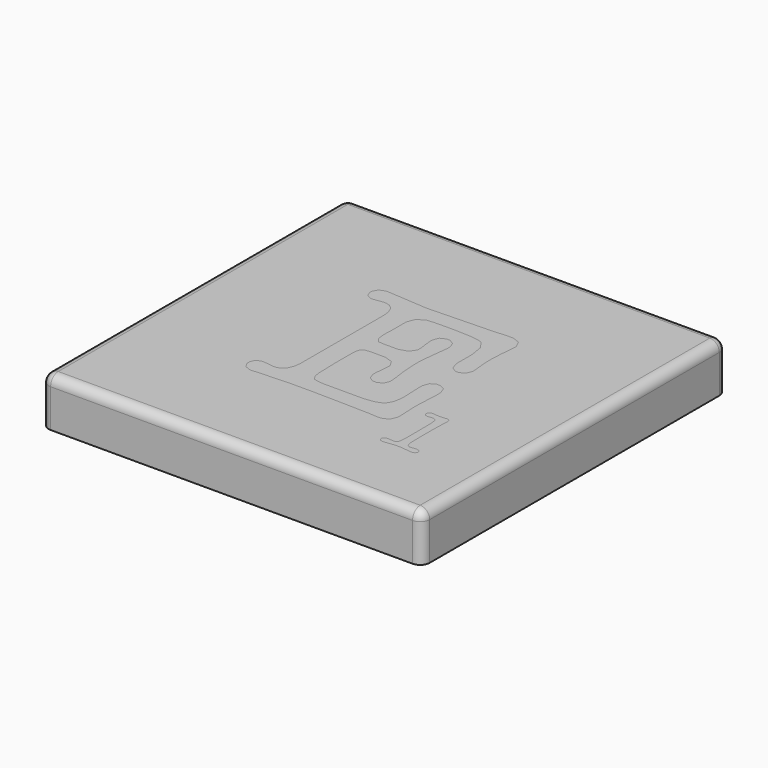
from build123d import *

# Parameters (mm, degrees)
F0_W     = 40
F0_H     = 40
F1_DEPTH = 5
F2_R     = 1
F5_DEPTH = 3


with BuildPart() as f1:
    # F0 (on Top) → F1 (new body)
    with BuildSketch(Plane.XY):
        Rectangle(F0_W, F0_H)
    extrude(amount=-F1_DEPTH)

    # F2
    f2_edges = [f1.edges().sort_by_distance(p)[0] for p in [
        (0, -20, 0),
        (20, 0, 0),
        (0, 20, 0),
        (-20, 0, 0),
        (-20, 20, -2.5),
        (20, 20, -2.5),
        (-20, -20, -2.5),
        (20, -20, -2.5),
    ]]
    fillet(f2_edges, radius=F2_R)


with BuildPart() as f5:
    # F3 (on Top) + F4 (on Top) → F5 (new body)
    with BuildSketch(Plane.XY):
        Polygon((-4.391787, 5.533542), (-4.391787, 5.318557), (-4.391787, -5.290947), (-4.391787, -5.507304), (-4.477233, -6.159144), (-4.729429, -6.77926), (-5.151095, -7.151319), (-5.593461, -7.275347), (-5.740908, -7.275347), (-5.869051, -7.275347), (-6.249391, -7.209206), (-6.297625, -7.196811), (-6.395466, -7.187159), (-6.833692, -7.143064), (-7.011441, -7.143064), (-7.165797, -7.143064), (-7.627442, -7.353884), (-7.831379, -7.830693), (-7.831379, -7.990561), (-7.831379, -8.16831), (-7.554392, -8.704377), (-6.930136, -8.942781), (-6.720688, -8.942781), (-6.562217, -8.942781), (-6.54017, -8.937269), (-6.384442, -8.916594), (-6.323813, -8.916594), (-5.926938, -8.889035), (-2.673375, -8.758123), (-1.455191, -8.758123), (-0.577393, -8.758123), (2.058772, -8.800846), (2.433599, -8.810473), (2.808427, -8.818753), (4.0735, -8.849055), (4.497934, -8.862847), (4.774921, -8.862847), (5.608599, -8.884895), (5.662371, -8.890406), (5.767121, -8.898687), (6.356883, -8.942781), (6.588404, -8.942781), (6.815785, -8.942781), (7.500671, -8.631326), (7.805217, -7.932674), (7.805217, -7.699781), (7.805217, -7.454494), (7.770749, -6.722745), (7.765237, -6.601485), (7.758379, -6.480226), (7.725283, -5.777408), (7.725283, -5.503189), (7.725283, -5.179339), (7.769377, -4.210583), (7.779029, -4.047973), (7.787284, -3.884016), (7.831404, -2.95656), (7.831404, -2.592781), (7.831404, -2.364029), (7.579233, -1.679143), (7.01421, -1.375969), (6.826834, -1.375969), (6.647688, -1.375969), (6.111596, -1.673606), (5.873191, -2.343353), (5.873191, -2.566594), (5.873191, -2.827045), (5.906287, -3.612515), (5.913171, -3.743427), (5.918657, -3.872967), (5.953125, -4.626737), (5.953125, -4.921682), (5.953125, -5.18762), (5.80705, -5.988253), (5.468061, -6.57667), (5.371617, -6.65386), (5.273751, -6.731025), (4.5434, -7.001104), (3.55534, -7.116877), (3.227349, -7.116877), (-0.370688, -7.116877), (-0.592557, -7.116877), (-1.256767, -7.070014), (-1.697736, -6.962521), (-1.745971, -6.932219), (-1.812112, -6.888124), (-2.050517, -6.469202), (-2.164893, -5.785688), (-2.169008, -5.609311), (-2.169008, -5.354345), (-2.192426, -4.589577), (-2.196592, -4.444848), (-2.200732, -4.324985), (-2.222779, -3.590468), (-2.222779, -3.306572), (-2.222779, -1.666723), (-2.222779, -1.486205), (-2.180057, -0.944626), (-2.079447, -0.572567), (-2.050517, -0.528447), (-2.022958, -0.484353), (-1.730781, -0.330022), (-1.266393, -0.263881), (-1.110666, -0.263881), (0.079959, -0.263881), (0.362407, -0.263881), (1.209929, -0.547751), (1.5875, -1.188542), (1.5875, -1.402156), (1.5875, -1.589532), (1.532407, -2.155927), (1.521358, -2.248256), (1.51036, -2.34061), (1.455217, -2.883535), (1.455217, -3.095752), (1.455217, -3.303829), (1.686738, -3.92811), (2.207616, -4.206443), (2.38125, -4.206443), (2.559025, -4.206443), (3.095066, -3.968039), (3.333471, -3.431997), (3.333471, -3.254223), (3.333471, -3.046171), (3.267329, -2.424633), (3.254959, -2.328189), (3.237027, -2.208327), (3.126791, -1.436624), (3.122651, -1.402156), (3.104744, -1.176147), (3.042717, -0.256997), (3.016529, 0.292837), (3.016529, 0.476123), (3.016529, 0.961187), (3.147466, 2.416378), (3.175, 2.618943), (3.205302, 2.857373), (3.312795, 3.744798), (3.359658, 4.132047), (3.359658, 4.260215), (3.359658, 4.473829), (3.121279, 5.113223), (2.585212, 5.397068), (2.407437, 5.397068), (2.228291, 5.397068), (1.69225, 5.132502), (1.455217, 4.537177), (1.455217, 4.338752), (1.455217, 4.136187), (1.521358, 3.524326), (1.535151, 3.440303), (1.547546, 3.356229), (1.613687, 2.824302), (1.613687, 2.618943), (1.613687, 2.406752), (1.196137, 1.767357), (0.25908, 1.48209), (-0.052349, 1.48209), (-1.138276, 1.48209), (-1.289812, 1.48209), (-1.74183, 1.526184), (-1.772133, 1.534439), (-1.852066, 1.561998), (-2.13045, 1.918945), (-2.248941, 2.543175), (-2.248941, 2.751252), (-2.248941, 3.095777), (-2.248941, 3.212897), (-2.228266, 3.56428), (-2.222779, 3.624936), (-2.222779, 5.397068), (-2.222779, 5.658917), (-1.938884, 6.44304), (-1.274674, 6.936359), (-1.084504, 6.984568), (-1.028014, 6.998386), (-0.358267, 7.045223), (0.763448, 7.064527), (1.138276, 7.064527), (1.715668, 7.064527), (3.452012, 6.992874), (4.56819, 6.823354), (4.682566, 6.773748), (4.836897, 6.707607), (5.377129, 5.92074), (5.608599, 4.59646), (5.608599, 4.154094), (5.608599, 2.778836), (5.608599, 2.517013), (5.847029, 1.727378), (6.383096, 1.375969), (6.562242, 1.375969), (6.739992, 1.375969), (7.276059, 1.62814), (7.514463, 2.194535), (7.514463, 2.381961), (7.514463, 2.635504), (7.424877, 3.392043), (7.408342, 3.518814), (7.398715, 3.580841), (7.355992, 4.491711), (7.355992, 4.815561), (7.355992, 5.171084), (7.420762, 6.23631), (7.434529, 6.376873), (7.451065, 6.567043), (7.513091, 7.283628), (7.540625, 7.615733), (7.540625, 7.725969), (7.540625, 7.954721), (7.196099, 8.639607), (6.423025, 8.942781), (6.165367, 8.942781), (5.990361, 8.942781), (5.468061, 8.922106), (5.397779, 8.916594), (5.199355, 8.904173), (4.457954, 8.857336), (4.129989, 8.83666), (4.021099, 8.83666), (-2.355063, 8.652027), (-2.619654, 8.652027), (-2.751938, 8.668563), (-3.413404, 8.718169), (-4.604029, 8.800846), (-5.893867, 8.88906), (-6.323813, 8.916594), (-6.385814, 8.922106), (-6.621475, 8.942781), (-6.720688, 8.942781), (-6.930136, 8.942781), (-7.554392, 8.711286), (-7.831379, 8.190382), (-7.831379, 8.016748), (-7.831379, 7.87207), (-7.632954, 7.437958), (-7.592974, 7.395261), (-7.554392, 7.35391), (-7.157517, 7.144461), (-7.011441, 7.144461), (-6.851599, 7.144461), (-6.367907, 7.210603), (-6.297625, 7.222998), (-6.267298, 7.23265), (-5.880075, 7.276744), (-5.740908, 7.276744), (-5.593461, 7.276744), (-5.151095, 7.155459), (-4.729429, 6.787515), (-4.477233, 6.175705), align=None)
    with BuildSketch(Plane.XY):
        Polygon((10.612083, -7.073426), (10.641013, -9.835015), (10.641013, -10.056859), (10.621735, -10.722466), (10.577615, -11.148272), (10.56522, -11.192366), (10.551453, -11.235089), (10.257931, -11.454189), (10.15595, -11.454189), (10.092551, -11.454189), (9.906522, -11.439025), (9.869311, -11.436282), (9.843123, -11.43077), (9.647442, -11.407352), (9.574417, -11.407352), (9.486228, -11.407352), (9.223008, -11.490029), (9.10726, -11.67743), (9.10726, -11.740828), (9.10726, -11.804227), (9.209241, -11.99714), (9.439365, -12.083957), (9.51653, -12.083957), (9.622651, -12.083957), (9.945104, -12.042631), (10.002991, -12.035722), (10.103575, -12.020558), (10.773322, -11.950302), (11.031005, -11.950302), (11.30248, -11.950302), (12.116906, -12.037119), (12.250561, -12.055026), (12.273979, -12.057769), (12.477941, -12.074305), (12.555107, -12.074305), (12.633669, -12.074305), (12.869305, -11.990256), (12.9754, -11.80283), (12.9754, -11.740828), (12.9754, -11.67743), (12.859653, -11.490029), (12.603341, -11.407352), (12.517896, -11.407352), (12.238165, -11.42663), (12.203723, -11.43077), (12.167884, -11.434911), (11.968062, -11.454189), (11.889525, -11.454189), (11.80822, -11.454189), (11.564303, -11.288835), (11.45267, -10.905727), (11.451299, -10.796863), (11.451299, -10.623228), (11.434763, -10.106465), (11.43202, -10.007253), (11.429252, -9.924576), (11.422368, -9.216271), (11.422368, -8.139997), (11.422368, -7.719703), (11.460951, -6.461565), (11.469206, -6.292046), (11.470603, -6.257629), (11.478858, -6.119834), (11.478858, -6.063319), (11.478858, -5.993037), (11.447159, -5.782191), (11.441647, -5.768425), (11.433392, -5.747749), (11.247362, -5.644396), (11.183964, -5.644396), (11.105427, -5.644396), (10.869766, -5.667815), (10.821531, -5.673302), (10.78846, -5.676096), (10.442589, -5.692606), (10.317189, -5.692606), (10.233115, -5.692606), (9.980944, -5.67193), (9.940964, -5.667815), (9.899638, -5.663675), (9.672257, -5.644396), (9.584069, -5.644396), (9.49588, -5.644396), (9.231288, -5.893799), (9.231288, -5.977873), (9.231288, -6.039874), (9.323617, -6.227326), (9.533065, -6.31135), (9.603347, -6.31135), (9.663977, -6.31135), (9.848635, -6.290674), (9.878963, -6.287931), (9.90929, -6.283791), (10.085668, -6.263115), (10.15595, -6.263115), (10.241395, -6.263115), (10.497707, -6.398167), (10.51287, -6.425751), (10.528009, -6.451939), (10.610711, -6.992095), align=None)
    extrude(amount=-F5_DEPTH)


solid = Compound([f1.part, f5.part])
